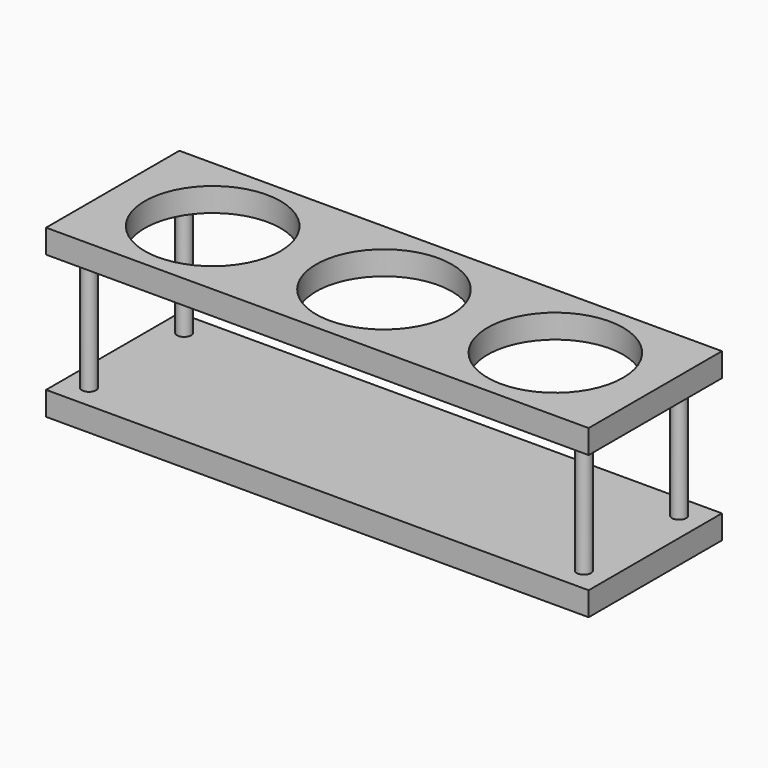
from build123d import *

# Parameters (mm, degrees)
F0_W     = 228
F0_H     = 70
F1_DEPTH = 10
F3_W     = 228
F3_H     = 70
F3_R     = 28.5
F4_DEPTH = 10
F5_R     = 3
F6_DEPTH = 50


with BuildPart() as f1:
    # F0 (on Top) → F1 (new body)
    with BuildSketch(Plane.XY):
        Rectangle(F0_W, F0_H)
    extrude(amount=F1_DEPTH)


with BuildPart() as f4:
    # F3 (on offset) → F4 (new body)
    with BuildSketch(Plane.XY.offset(60)):
        Rectangle(F3_W, F3_H)
        with Locations((-72, 0)):
            Circle(F3_R, mode=Mode.SUBTRACT)
        Circle(F3_R, mode=Mode.SUBTRACT)
        with Locations((72, 0)):
            Circle(F3_R, mode=Mode.SUBTRACT)
    extrude(amount=F4_DEPTH)


with BuildPart() as f6:
    # F5 (on face) → F6 (new body, through all)
    with BuildSketch(Plane.XY.offset(10)):
        with Locations((-104, -25)):
            Circle(F5_R)
    extrude(amount=F6_DEPTH)


with BuildPart() as f6b:
    # F5 (on face) → F6, piece 2 (new body, through all)
    with BuildSketch(Plane.XY.offset(10)):
        with Locations((-104, 25)):
            Circle(F5_R)
    extrude(amount=F6_DEPTH)


with BuildPart() as f6c:
    # F5 (on face) → F6, piece 3 (new body, through all)
    with BuildSketch(Plane.XY.offset(10)):
        with Locations((104, 25)):
            Circle(F5_R)
    extrude(amount=F6_DEPTH)


with BuildPart() as f6d:
    # F5 (on face) → F6, piece 4 (new body, through all)
    with BuildSketch(Plane.XY.offset(10)):
        with Locations((104, -25)):
            Circle(F5_R)
    extrude(amount=F6_DEPTH)


solid = Compound([f1.part, f4.part, f6.part, f6b.part, f6c.part, f6d.part])
